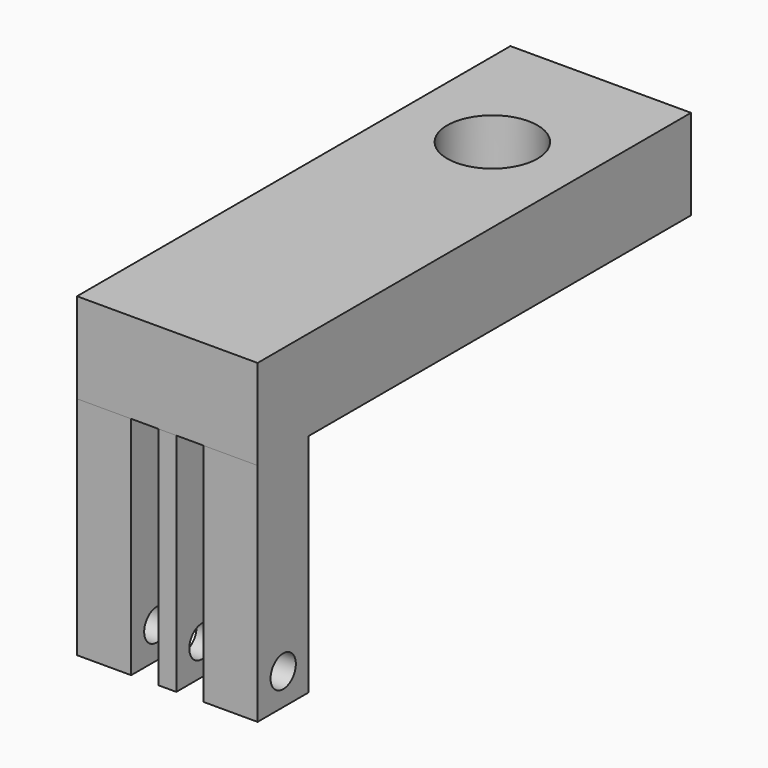
from build123d import *

# Parameters (mm, degrees)
F0_W     = 20
F0_H     = 60
F0_R     = 5
F1_DEPTH = 10
F2_W     = 2
F2_H     = 7.045413
F2_W_2   = 6
F3_DEPTH = 25
F4_R     = 1.75
F5_DEPTH = 25


with BuildPart() as f1:
    # F0 (on Top) → F1 (new body)
    with BuildSketch(Plane.XY):
        with Locations((0, -15.870169)):
            Rectangle(F0_W, F0_H)
        with Locations((0, -0.870169)):
            Circle(F0_R, mode=Mode.SUBTRACT)
    extrude(amount=F1_DEPTH)

    # F2 (on face) → F3 (join)
    with BuildSketch(Plane(origin=(0, 0, 0), x_dir=(1, 0, 0), z_dir=(0, 0, -1))):
        with Locations((0, 42.347462)):
            Rectangle(F2_W, F2_H)
        with Locations((-7, 42.347462)):
            Rectangle(F2_W_2, F2_H)
        with Locations((7, 42.347462)):
            Rectangle(F2_W_2, F2_H)
    extrude(amount=F3_DEPTH)

    # F4 (on face) → F5 (cut)
    with BuildSketch(Plane.YZ.offset(10)):
        with Locations((-42.324756, -21.5)):
            Circle(F4_R)
    extrude(amount=-F5_DEPTH, mode=Mode.SUBTRACT)


solid = f1.part
